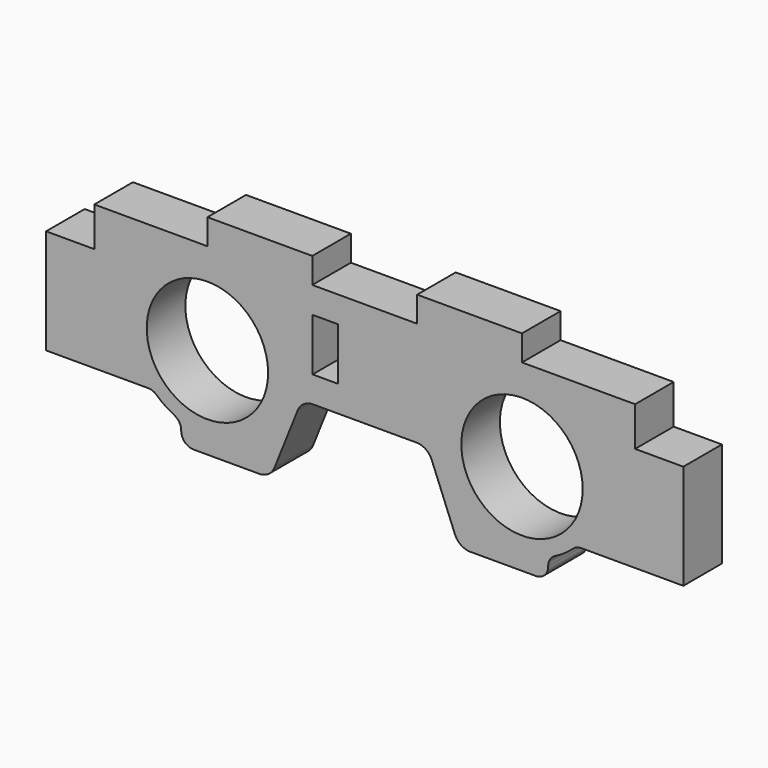
from build123d import *

# Parameters (mm, degrees)
F0_R      = 7.35
F1_DEPTH  = 5.842
F2_R      = 2
F3_W      = 3.0988
F3_H      = 6.35
F4_DEPTH  = 25.4
F5_W      = 12.7
F5_H      = 3.0988
F6_DEPTH  = 5.842
F8_DEPTH  = 5.842
F10_DEPTH = 25.4
F11_R     = 1.5


with BuildPart() as f1:
    # F0 (on Front) → F1 (new body)
    with BuildSketch(Plane.XZ):
        Polygon((31.75, 11.1125), (-31.75, 11.1125), (-31.75, -11.1125), (-11.43, -11.1125), (-7.62, -1.5875), (0, -1.5875), (7.62, -1.5875), (11.43, -11.1125), (31.75, -11.1125), align=None)
        with Locations((-19.05, 0)):
            Circle(F0_R, mode=Mode.SUBTRACT)
        with Locations((19.05, 0)):
            Circle(F0_R, mode=Mode.SUBTRACT)
    extrude(amount=F1_DEPTH)

    # F2
    f2_edges = [f1.edges().sort_by_distance(p)[0] for p in [
        (-11.43, -2.921, -11.1125),
        (-7.62, -2.921, -1.5875),
        (7.62, -2.921, -1.5875),
        (11.43, -2.921, -11.1125),
    ]]
    fillet(f2_edges, radius=F2_R)

    # F3 (on face) → F4 (cut)
    with BuildSketch(Plane(origin=(0, 0, 0), x_dir=(-1, 0, 0), z_dir=(0, 1, 0))):
        with Locations((4.7625, 4.7625)):
            Rectangle(F3_W, F3_H)
    extrude(amount=-F4_DEPTH, mode=Mode.SUBTRACT)

    # F5 (on face) → F6 (join, through all)
    with BuildSketch(Plane.XZ.offset(5.842)):
        with Locations((-12.7, 12.6619)):
            Rectangle(F5_W, F5_H)
        with Locations((12.7, 12.6619)):
            Rectangle(F5_W, F5_H)
    extrude(amount=-F6_DEPTH)

    # F7 (on face) → F8 (join, through all)
    with BuildSketch(Plane.XZ.offset(5.842)):
        Polygon((38.592, 6.35), (32.75, 6.35), (32.75, 11.1125), (31.75, 11.1125), (31.75, 6.35), (31.75, -6.35), (31.75, -11.1125), (32.75, -11.1125), (32.75, -6.35), (38.592, -6.35), align=None)
        Polygon((-31.75, 6.35), (-31.75, 11.1125), (-32.75, 11.1125), (-32.75, 6.35), (-38.592, 6.35), (-38.592, -6.35), (-32.75, -6.35), (-32.75, -11.1125), (-31.75, -11.1125), (-31.75, -6.35), align=None)
    extrude(amount=-F8_DEPTH)

    # F9 (on face) → F10 (cut)
    with BuildSketch(Plane.XZ.offset(5.842)):
        with BuildLine():
            Line((-22.22424, -11.1125), (-22.22424, -8.5725))
            ThreePointArc((-22.22424, -8.5725), (-24.0500663267, -7.652639581), (-25.625793171, -6.35))
            Line((-25.625793171, -6.35), (-32.75, -6.35))
            Line((-32.75, -6.35), (-32.75, -8.5725))
            Line((-32.75, -8.5725), (-32.75, -11.1125))
            Line((-32.75, -11.1125), (-22.22424, -11.1125))
        make_face()
        with BuildLine():
            Line((32.75, -8.5725), (32.75, -6.35))
            Line((32.75, -6.35), (25.625793171, -6.35))
            ThreePointArc((25.625793171, -6.35), (24.0500663267, -7.652639581), (22.22424, -8.5725))
            Line((22.22424, -8.5725), (22.22424, -11.1125))
            Line((22.22424, -11.1125), (32.75, -11.1125))
            Line((32.75, -11.1125), (32.75, -8.5725))
        make_face()
    extrude(amount=-F10_DEPTH, mode=Mode.SUBTRACT)

    # F11
    f11_edges = [f1.edges().sort_by_distance(p)[0] for p in [
        (25.625793, -2.921, -6.35),
        (22.22424, -2.921, -11.1125),
        (22.22424, -2.921, -8.5725),
        (-25.625793, -2.921, -6.35),
        (-22.22424, -2.921, -8.5725),
        (-22.22424, -2.921, -11.1125),
    ]]
    fillet(f11_edges, radius=F11_R)


solid = f1.part
